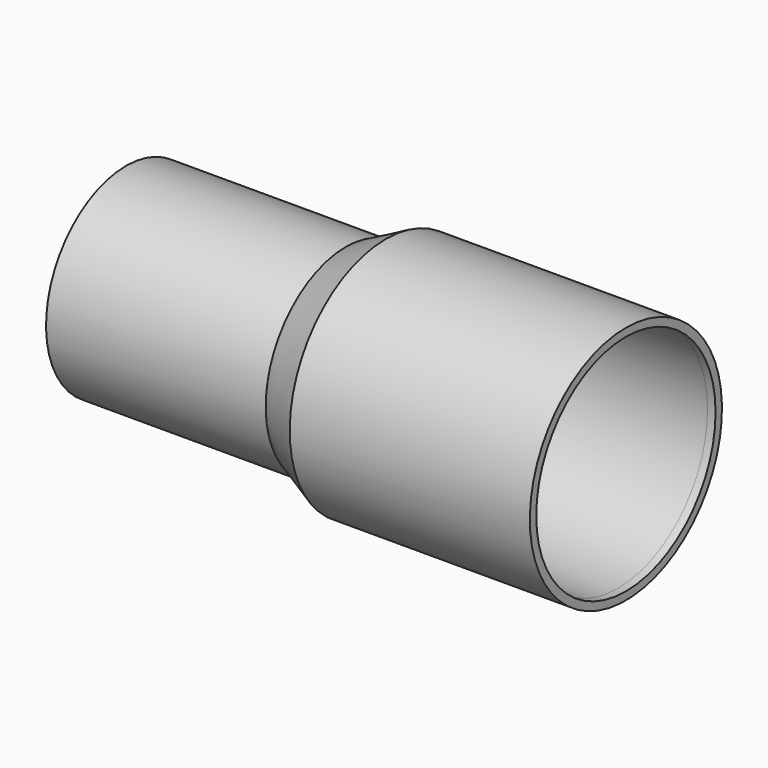
from build123d import *

# Parameters (mm, degrees)
F1_T     = -2
F2_R     = 28
F3_DEPTH = 25


with BuildPart() as f4:
    # F0 (on Front) → F4 (revolve)
    with BuildSketch(Plane.XZ):
        Polygon((47.7527889609, 0), (47.7527889609, 30), (-12.2472110391, 30), (-22.2472110391, 25), (-77.1310710907, 25), (-77.1310710907, 0), align=None)
    revolve(axis=Axis((-5.2267275751, 0, 0), (1, 0, 0)))

    # F1
    f1_openings = [f4.faces().sort_by_distance(p)[0] for p in [
        (-77.131071, 0, 0),
    ]]
    offset(amount=F1_T, openings=f1_openings, kind=Kind.INTERSECTION)

    # F2 (on face) → F3 (cut)
    with BuildSketch(Plane(origin=(45.7527889609, 0, 0), x_dir=(0, -1, 0), z_dir=(-1, 0, 0))):
        Circle(F2_R)
    extrude(amount=-F3_DEPTH, mode=Mode.SUBTRACT)


solid = f4.part
